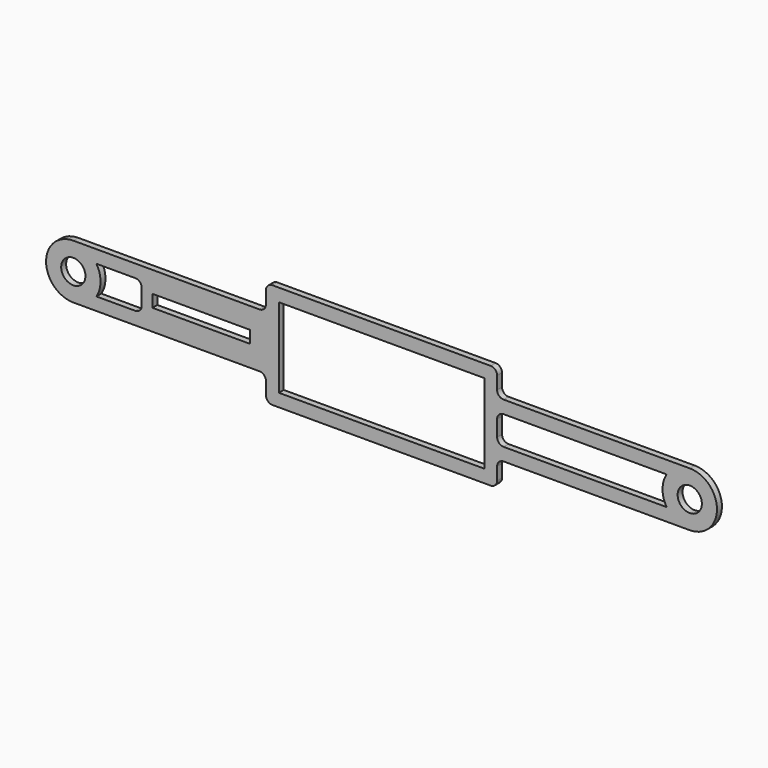
from build123d import *

# Parameters (mm, degrees)
F0_R     = 2.9972
F0_W     = 24.13
F0_H     = 3.048
F0_W_2   = 50.8
F0_H_2   = 19.7104
F1_DEPTH = 1.524
F2_R     = 1.5875


with BuildPart() as f1:
    # F0 (on Front) → F1 (new body)
    with BuildSketch(Plane.XZ):
        with BuildLine():
            ThreePointArc((-76.2, 6.732652), (-82.932652, 0), (-76.2, -6.732652))
            Line((-76.2, -6.732652), (-28.575, -6.732652))
            Line((-28.575, -6.732652), (-28.575, -13.0302))
            Line((-28.575, -13.0302), (28.575, -13.0302))
            Line((28.575, -13.0302), (28.575, -6.732652))
            Line((28.575, -6.732652), (76.2, -6.732652))
            ThreePointArc((76.2, -6.732652), (82.932652, 0), (76.2, 6.732652))
            Line((76.2, 6.732652), (28.575, 6.732652))
            Line((28.575, 6.732652), (28.575, 13.0302))
            Line((28.575, 13.0302), (-28.575, 13.0302))
            Line((-28.575, 13.0302), (-28.575, 6.732652))
            Line((-28.575, 6.732652), (-76.2, 6.732652))
        make_face()
        with Locations((-76.2, 0)):
            Circle(F0_R, mode=Mode.SUBTRACT)
        with Locations((-44.577, 0)):
            Rectangle(F0_W, F0_H, mode=Mode.SUBTRACT)
        Rectangle(F0_W_2, F0_H_2, mode=Mode.SUBTRACT)
        with Locations((76.2, 0)):
            Circle(F0_R, mode=Mode.SUBTRACT)
        with BuildLine():
            ThreePointArc((-70.484082, -3.557652), (-69.467348, 0), (-70.484082, 3.557652))
            Line((-70.484082, 3.557652), (-59.298042, 3.557652))
            Line((-59.298042, 3.557652), (-59.298042, -3.557652))
            Line((-59.298042, -3.557652), (-70.484082, -3.557652))
        make_face(mode=Mode.SUBTRACT)
        with BuildLine():
            Line((28.575, -3.557652), (28.575, 3.557652))
            Line((28.575, 3.557652), (70.484082, 3.557652))
            ThreePointArc((70.484082, 3.557652), (69.467348, 0), (70.484082, -3.557652))
            Line((70.484082, -3.557652), (28.575, -3.557652))
        make_face(mode=Mode.SUBTRACT)
    extrude(amount=F1_DEPTH)

    # F2
    f2_edges = [f1.edges().sort_by_distance(p)[0] for p in [
        (-28.575, -0.762, 13.0302),
        (28.575, -0.762, 13.0302),
        (28.575, -0.762, -13.0302),
        (-28.575, -0.762, -13.0302),
        (-28.575, -0.762, -6.732652),
        (-28.575, -0.762, 6.732652),
        (28.575, -0.762, 6.732652),
        (28.575, -0.762, 3.557652),
        (28.575, -0.762, -6.732652),
        (28.575, -0.762, -3.557652),
        (-59.298042, -0.762, 3.557652),
        (-59.298042, -0.762, -3.557652),
    ]]
    fillet(f2_edges, radius=F2_R)


solid = f1.part
